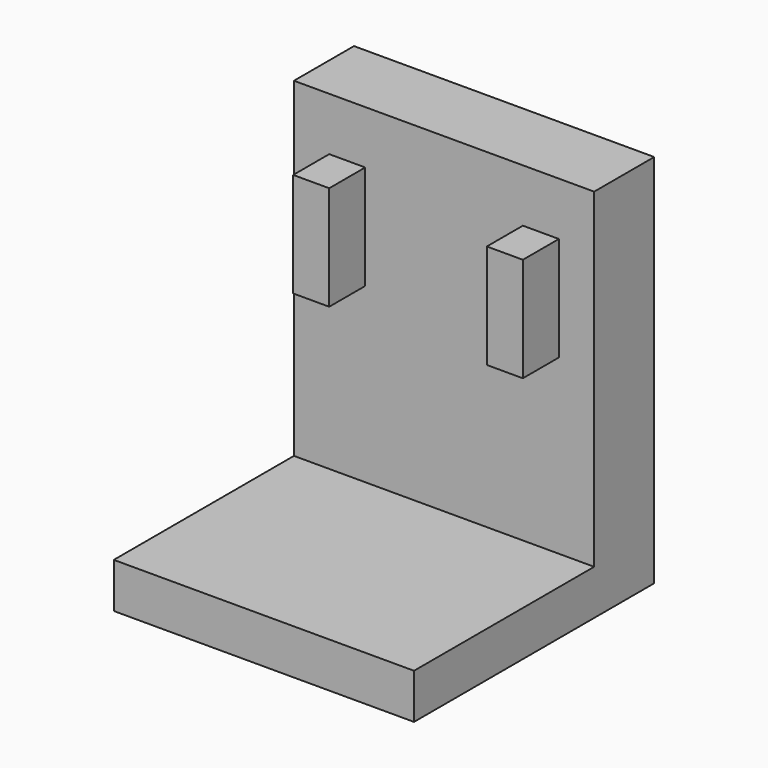
from build123d import *

# Parameters (mm, degrees)
F0_W     = 20
F0_H     = 25
F1_DEPTH = 5
F2_W     = 20
F2_H     = 3
F3_DEPTH = 15
F4_W     = 2.4
F4_H     = 6.95
F5_DEPTH = 3


with BuildPart() as f1:
    # F0 (on Front) → F1 (new body)
    with BuildSketch(Plane.XZ):
        with Locations((10, 12.5)):
            Rectangle(F0_W, F0_H)
    extrude(amount=F1_DEPTH)

    # F2 (on face) → F3 (join)
    with BuildSketch(Plane.XZ.offset(5)):
        with Locations((10, 1.5)):
            Rectangle(F2_W, F2_H)
    extrude(amount=F3_DEPTH)

    # F4 (on face) → F5 (join)
    with BuildSketch(Plane.XZ.offset(5)):
        with Locations((3.55, 17.985)):
            Rectangle(F4_W, F4_H)
        with Locations((16.45, 17.985)):
            Rectangle(F4_W, F4_H)
    extrude(amount=F5_DEPTH)


solid = f1.part
